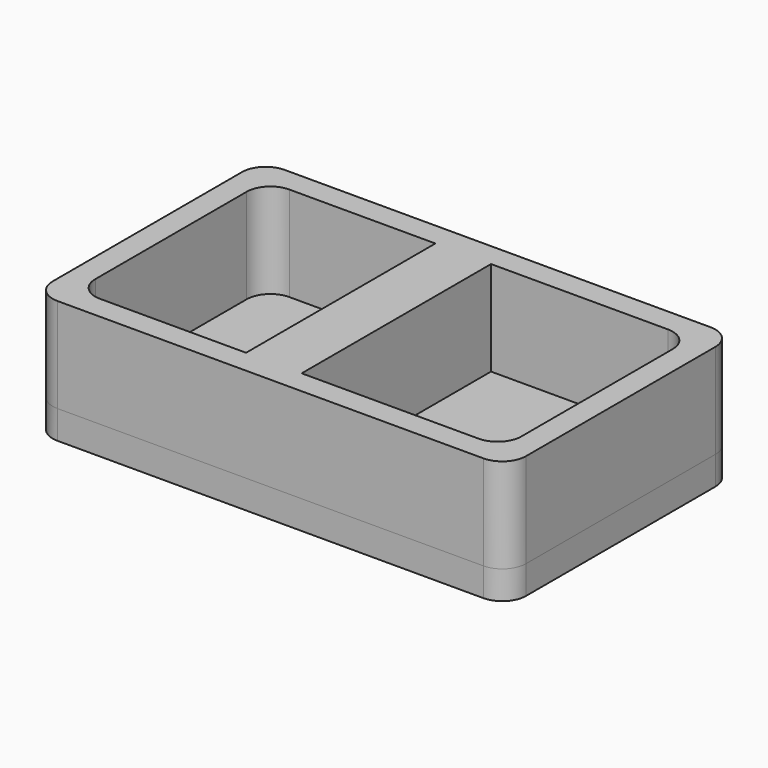
from build123d import *

# Parameters (mm, degrees)
F0_W     = 14.9327409454
F0_H     = 63.5
F1_DEPTH = 25.4
F2_DEPTH = 7.62


with BuildPart() as f1:
    # F0 (on Top) → F1 (new body)
    with BuildSketch(Plane.XY):
        with BuildLine():
            ThreePointArc((63.5, 31.75), (61.6401280605, 36.2401280605), (57.15, 38.1))
            Line((57.15, 38.1), (-57.15, 38.1))
            ThreePointArc((-57.15, 38.1), (-61.6401280605, 36.2401280605), (-63.5, 31.75))
            Line((-63.5, 31.75), (-63.5, -31.75))
            ThreePointArc((-63.5, -31.75), (-61.6401280605, -36.2401280605), (-57.15, -38.1))
            Line((-57.15, -38.1), (57.15, -38.1))
            ThreePointArc((57.15, -38.1), (61.6401280605, -36.2401280605), (63.5, -31.75))
            Line((63.5, -31.75), (63.5, 31.75))
        make_face()
        with BuildLine():
            Line((3.318386618, 31.75), (50.8, 31.75))
            ThreePointArc((50.8, 31.75), (55.2901280605, 29.8901280605), (57.15, 25.4))
            Line((57.15, 25.4), (57.15, -25.4))
            ThreePointArc((57.15, -25.4), (55.2901280605, -29.8901280605), (50.8, -31.75))
            Line((50.8, -31.75), (3.318386618, -31.75))
            Line((3.318386618, -31.75), (-11.6143543273, -31.75))
            Line((-11.6143543273, -31.75), (-50.8, -31.75))
            ThreePointArc((-50.8, -31.75), (-55.2901280605, -29.8901280605), (-57.15, -25.4))
            Line((-57.15, -25.4), (-57.15, 25.4))
            ThreePointArc((-57.15, 25.4), (-55.2901280605, 29.8901280605), (-50.8, 31.75))
            Line((-50.8, 31.75), (-11.6143543273, 31.75))
            Line((-11.6143543273, 31.75), (3.318386618, 31.75))
        make_face(mode=Mode.SUBTRACT)
        with Locations((-4.1479838546, 0)):
            Rectangle(F0_W, F0_H)
    extrude(amount=F1_DEPTH)


with BuildPart() as f2:
    # F0 (on Top) → F2 (new body)
    with BuildSketch(Plane.XY):
        with BuildLine():
            ThreePointArc((63.5, 31.75), (61.6401280605, 36.2401280605), (57.15, 38.1))
            Line((57.15, 38.1), (-57.15, 38.1))
            ThreePointArc((-57.15, 38.1), (-61.6401280605, 36.2401280605), (-63.5, 31.75))
            Line((-63.5, 31.75), (-63.5, -31.75))
            ThreePointArc((-63.5, -31.75), (-61.6401280605, -36.2401280605), (-57.15, -38.1))
            Line((-57.15, -38.1), (57.15, -38.1))
            ThreePointArc((57.15, -38.1), (61.6401280605, -36.2401280605), (63.5, -31.75))
            Line((63.5, -31.75), (63.5, 31.75))
        make_face()
        with BuildLine():
            Line((3.318386618, 31.75), (50.8, 31.75))
            ThreePointArc((50.8, 31.75), (55.2901280605, 29.8901280605), (57.15, 25.4))
            Line((57.15, 25.4), (57.15, -25.4))
            ThreePointArc((57.15, -25.4), (55.2901280605, -29.8901280605), (50.8, -31.75))
            Line((50.8, -31.75), (3.318386618, -31.75))
            Line((3.318386618, -31.75), (-11.6143543273, -31.75))
            Line((-11.6143543273, -31.75), (-50.8, -31.75))
            ThreePointArc((-50.8, -31.75), (-55.2901280605, -29.8901280605), (-57.15, -25.4))
            Line((-57.15, -25.4), (-57.15, 25.4))
            ThreePointArc((-57.15, 25.4), (-55.2901280605, 29.8901280605), (-50.8, 31.75))
            Line((-50.8, 31.75), (-11.6143543273, 31.75))
            Line((-11.6143543273, 31.75), (3.318386618, 31.75))
        make_face(mode=Mode.SUBTRACT)
        with BuildLine():
            ThreePointArc((57.15, 25.4), (55.2901280605, 29.8901280605), (50.8, 31.75))
            Line((50.8, 31.75), (3.318386618, 31.75))
            Line((3.318386618, 31.75), (3.318386618, -31.75))
            Line((3.318386618, -31.75), (50.8, -31.75))
            ThreePointArc((50.8, -31.75), (55.2901280605, -29.8901280605), (57.15, -25.4))
            Line((57.15, -25.4), (57.15, 25.4))
        make_face()
        with Locations((-4.1479838546, 0)):
            Rectangle(F0_W, F0_H)
        with BuildLine():
            Line((-11.6143543273, -31.75), (-11.6143543273, 31.75))
            Line((-11.6143543273, 31.75), (-50.8, 31.75))
            ThreePointArc((-50.8, 31.75), (-55.2901280605, 29.8901280605), (-57.15, 25.4))
            Line((-57.15, 25.4), (-57.15, -25.4))
            ThreePointArc((-57.15, -25.4), (-55.2901280605, -29.8901280605), (-50.8, -31.75))
            Line((-50.8, -31.75), (-11.6143543273, -31.75))
        make_face()
    extrude(amount=-F2_DEPTH)


solid = Compound([f1.part, f2.part])
